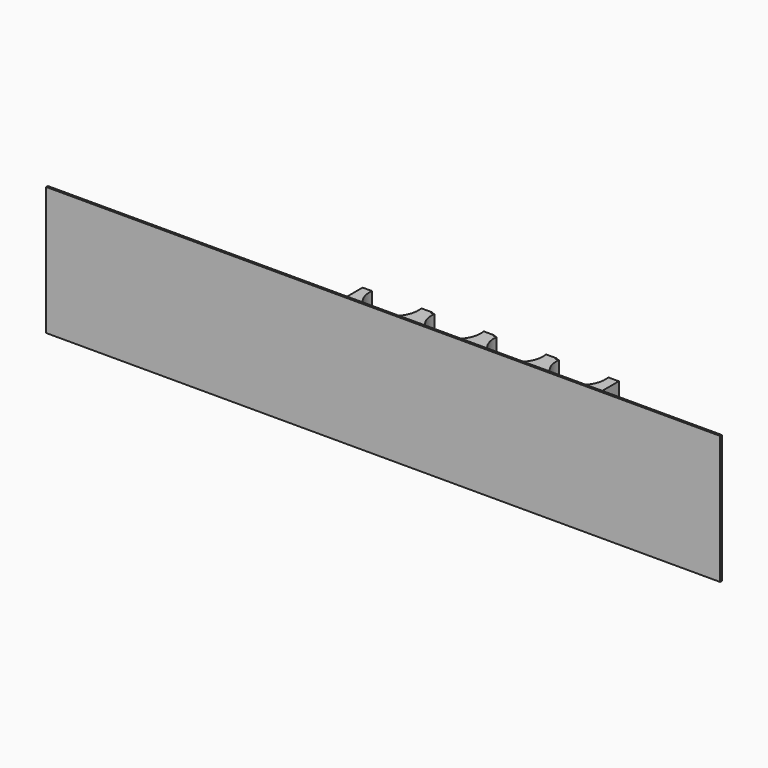
from build123d import *

# Parameters (mm, degrees)
SKETCH001_W         = 321.000992
SKETCH001_H         = 61.225169
PAD001_DEPTH        = 1
PAD_DEPTH           = 50
LINEARPATTERN_COUNT = 4
LINEARPATTERN_PITCH = 29.666667


with BuildPart() as part:
    # Sketch001 → Pad001 (new body)
    with BuildSketch(Plane.XZ):
        with Locations((12.393837, 25.929693)):
            Rectangle(SKETCH001_W, SKETCH001_H)
    extrude(amount=PAD001_DEPTH)

    # Sketch → Pad (join)
    with BuildSketch(Plane.XY):
        with BuildLine():
            Line((-13.439306, 0), (19.075138, 0))
            Line((19.075138, 0), (19.075138, 19.654779))
            Line((19.075138, 19.654779), (14.074553, 19.654779))
            ThreePointArc((-8.959539, 19.075142), (2.894254, 5.983074), (14.074553, 19.654779))
            Line((-13.439306, 19.075142), (-8.959539, 19.075142))
            Line((-13.439306, 0), (-13.439306, 19.075142))
        make_face()
    pad = extrude(amount=PAD_DEPTH)

    # LinearPattern: Pad ×4
    with Locations(*[(i * LINEARPATTERN_PITCH, 0, 0) for i in range(1, LINEARPATTERN_COUNT)]):
        add(pad)


solid = part.part
